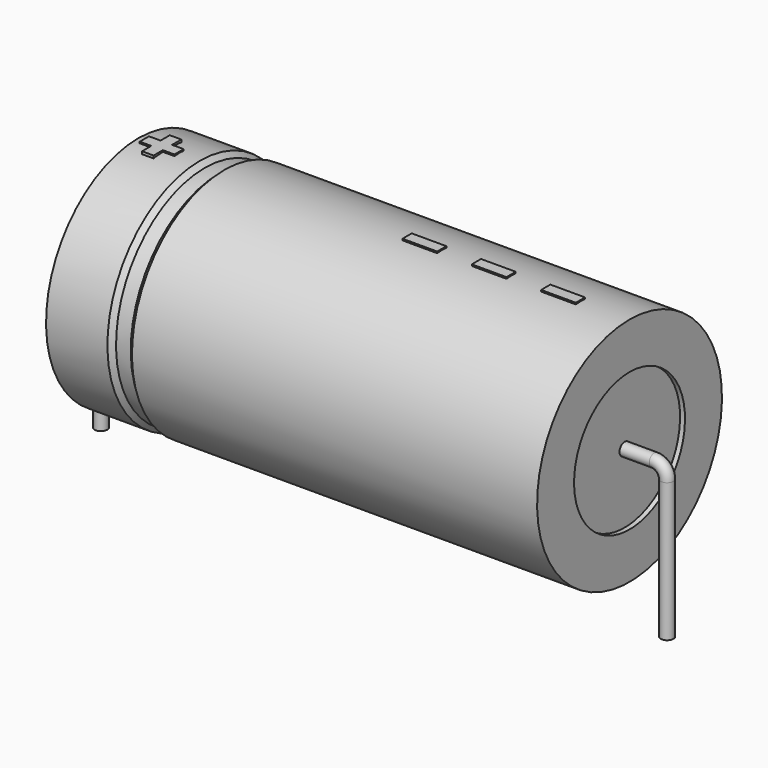
from build123d import *

# Parameters (mm, degrees)
SKETCH_R    = 0.55
SKETCH004_W = 3
SKETCH004_H = 1
PAD_DEPTH   = 10.1


with BuildPart() as sweep_body:
    # Sweep: sweep along a path in Sketch001
    with BuildLine(Plane.XZ) as sweep_path:
        Line((0, -3), (0, 9))
        ThreePointArc((0, 9), (0.32218, 9.777815), (1.099992, 10.1))
        Line((1.099992, 10.1), (47.9, 10.1))
        ThreePointArc((47.9, 10.1), (48.677817, 9.777817), (49, 9))
        Line((49, 9), (49, -3))
    # Sketch → Sweep (sweep)
    with BuildSketch(Plane.XY.offset(-2)):
        Circle(SKETCH_R)
    sweep(path=sweep_path.line)


with BuildPart() as revolution:
    # Sketch002 → Revolution (revolve)
    with BuildSketch(Plane.XZ):
        Polygon((3.25, 20.1), (3.25, 16.1), (45.75, 16.1), (45.75, 20.1), (10.6875, 20.1), (10.2625, 19.7), (8.9875, 19.7), (8.5625, 20.1), align=None)
    revolve(axis=Axis((6.97588, 0, 10.1), (1, 0, 0)))


with BuildPart() as revolution001:
    # Sketch003 → Revolution001 (revolve)
    with BuildSketch(Plane.XZ):
        Polygon((3.675, 19.7), (5.8, 19.7), (5.8, 11.1), (43.2, 11.1), (43.2, 19.7), (45.325, 19.7), (45.325, 10.1), (3.675, 10.1), align=None)
    revolve(axis=Axis((6.97588, 0, 10.1), (1, 0, 0)))


with BuildPart() as pad:
    # Sketch004 → Pad (new body)
    with BuildSketch(Plane.XY.offset(10.1)):
        with Locations((40, 0)):
            Rectangle(SKETCH004_W, SKETCH004_H)
        with Locations((34, 0)):
            Rectangle(SKETCH004_W, SKETCH004_H)
        with Locations((28, 0)):
            Rectangle(SKETCH004_W, SKETCH004_H)
        Polygon((4.76, 0.5), (3.76, 0.5), (3.76, -0.5), (4.76, -0.5), (4.76, -1.5), (5.76, -1.5), (5.76, -0.5), (6.76, -0.5), (6.76, 0.5), (5.76, 0.5), (5.76, 1.5), (4.76, 1.5), align=None)
    extrude(amount=PAD_DEPTH)


solid = Compound([sweep_body.part, revolution.part, revolution001.part, pad.part])
